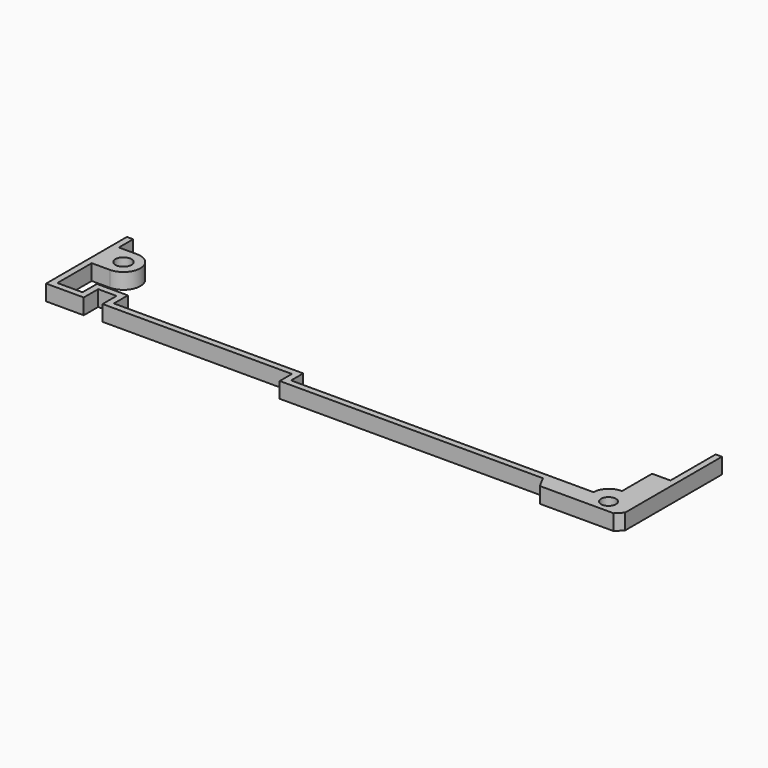
from build123d import *

# Parameters (mm, degrees)
F1_R     = 3.228028
F1_R_2   = 3.012468
F2_DEPTH = 6.35


with BuildPart() as f2:
    # F1 (on face) → F2 (new body)
    with BuildSketch(Plane.XY):
        with BuildLine():
            ThreePointArc((-91.947787, 87.109275), (-85.086599, 93.970463), (-91.947787, 100.83165))
            Line((-91.947787, 100.83165), (-99.291265, 100.83165))
            Line((-99.291265, 100.83165), (-99.291265, 108.071581))
            Line((-99.291265, 108.071581), (-101.831265, 108.071581))
            Line((-101.831265, 108.071581), (-101.831265, 67.195773))
            Line((-101.831265, 67.195773), (-86.591265, 67.195773))
            Line((-86.591265, 67.195773), (-86.591265, 74.484758))
            Line((-86.591265, 74.484758), (-83.508379, 74.484758))
            Line((-83.508379, 74.484758), (-83.508379, 77.024758))
            Line((-83.508379, 77.024758), (-89.131265, 77.024758))
            Line((-89.131265, 77.024758), (-89.131265, 69.735773))
            Line((-89.131265, 69.735773), (-99.291265, 69.735773))
            Line((-99.291265, 69.735773), (-99.291265, 87.109275))
            Line((-99.291265, 87.109275), (-91.947787, 87.109275))
        make_face()
        with Locations((-91.947787, 93.970463)):
            Circle(F1_R, mode=Mode.SUBTRACT)
        with BuildLine():
            Line((-76.610117, 77.024758), (-83.508379, 77.024758))
            Line((-83.508379, 77.024758), (-83.508379, 74.484758))
            Line((-83.508379, 74.484758), (-79.150117, 74.484758))
            Line((-79.150117, 74.484758), (-79.150117, 67.417324))
            Line((-79.150117, 67.417324), (-2.54, 67.417324))
            Line((-2.54, 67.417324), (-2.54, 61.251126))
            Line((-2.54, 61.251126), (103.91023, 61.251126))
            Line((103.91023, 61.251126), (106.528006, 56.480713))
            Line((106.528006, 56.480713), (136.366479, 56.480713))
            Line((136.366479, 56.480713), (138.906479, 59.101462))
            Line((138.906479, 59.101462), (138.906479, 108.071581))
            Line((138.906479, 108.071581), (136.366479, 108.071581))
            Line((136.366479, 108.071581), (136.366479, 85.211581))
            Line((136.366479, 85.211581), (128.938311, 85.211581))
            Line((128.938311, 85.211581), (128.938311, 69.971581))
            ThreePointArc((128.938311, 69.971581), (124.35225, 68.268028), (122.379587, 63.791126))
            Line((122.379587, 63.791126), (104.599587, 63.791126))
            Line((104.599587, 63.791126), (0, 63.791126))
            Line((0, 63.791126), (0, 69.957324))
            Line((0, 69.957324), (-76.610117, 69.957324))
            Line((-76.610117, 69.957324), (-76.610117, 77.024758))
        make_face()
        with Locations((130.075902, 61.770894)):
            Circle(F1_R_2, mode=Mode.SUBTRACT)
    extrude(amount=F2_DEPTH)


solid = f2.part
